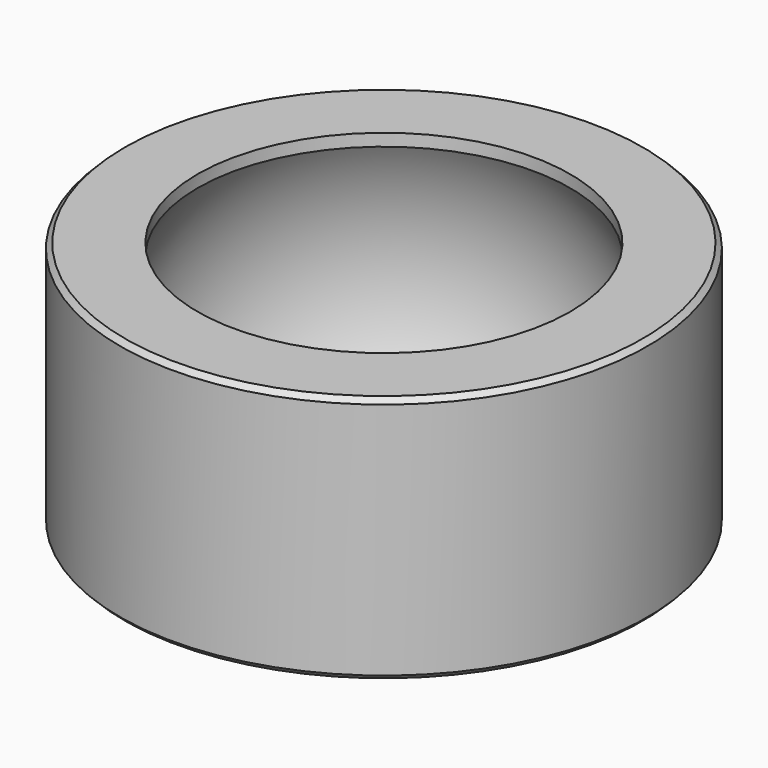
from build123d import *

# Parameters (mm, degrees)
F2_SIZE = 0.508


with BuildPart() as f1:
    # F0 (on Front) → F1 (revolve)
    with BuildSketch(Plane.XZ):
        with BuildLine():
            Line((-26.9875, 12.7), (-26.9875, -12.7))
            Line((-26.9875, -12.7), (-19.05, -12.7))
            Line((-19.05, -12.7), (-19.05, -11.447625))
            ThreePointArc((-19.05, -11.447625), (-22.225, 0), (-19.05, 11.447625))
            Line((-19.05, 11.447625), (-19.05, 12.7))
            Line((-19.05, 12.7), (-26.9875, 12.7))
        make_face()
    revolve(axis=Axis((0, 0, -0.747743), (0, 0, -1)))

    # F2
    f2_edges = [f1.edges().sort_by_distance(p)[0] for p in [
        (26.9875, 0, 12.7),
        (26.9875, 0, -12.7),
    ]]
    chamfer(f2_edges, length=F2_SIZE)


solid = f1.part
